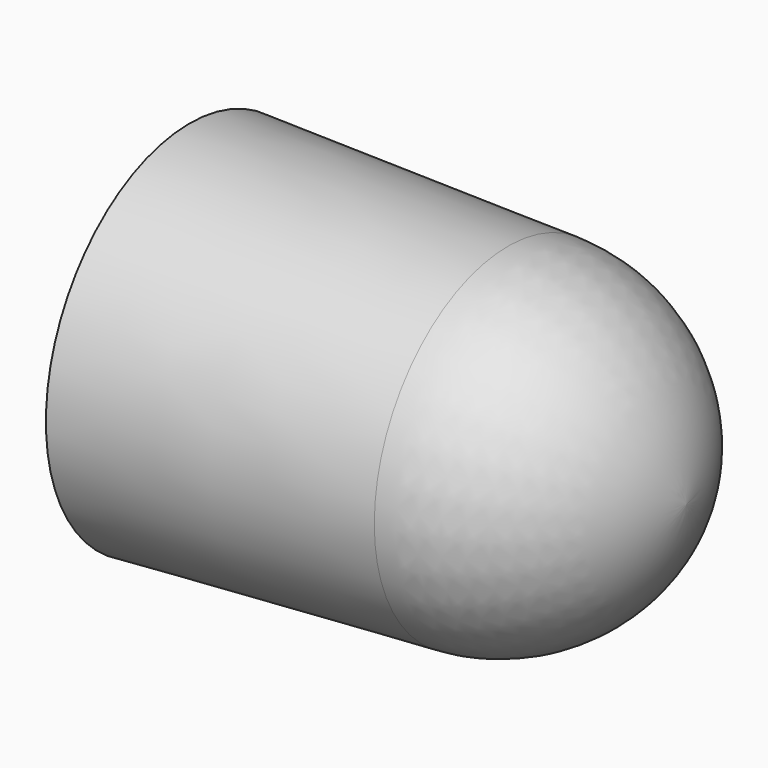
from build123d import *


with BuildPart() as f1:
    # F0 (on Top) → F1 (revolve)
    with BuildSketch(Plane.XY):
        with BuildLine():
            ThreePointArc((26.5906718547, 3.175), (17.7780675856, 20.0271008288), (0, 26.7795529217))
            Line((0, 26.7795529217), (-44.7110741639, 26.7795529217))
            Line((-44.7110741639, 26.7795529217), (-44.7110741639, 22.2075529217))
            Line((-44.7110741639, 22.2075529217), (0, 22.2075529217))
            ThreePointArc((0, 22.2075529217), (14.6088910311, 16.7258993662), (22.0057421095, 2.9870923953))
            Line((22.0057421095, 2.9870923953), (26.5906718547, 3.175))
        make_face()
    revolve(axis=Axis((24.2982069821, 3.0810461976, 0), (-0.9991612227, -0.0409493716, 0)))


solid = f1.part
